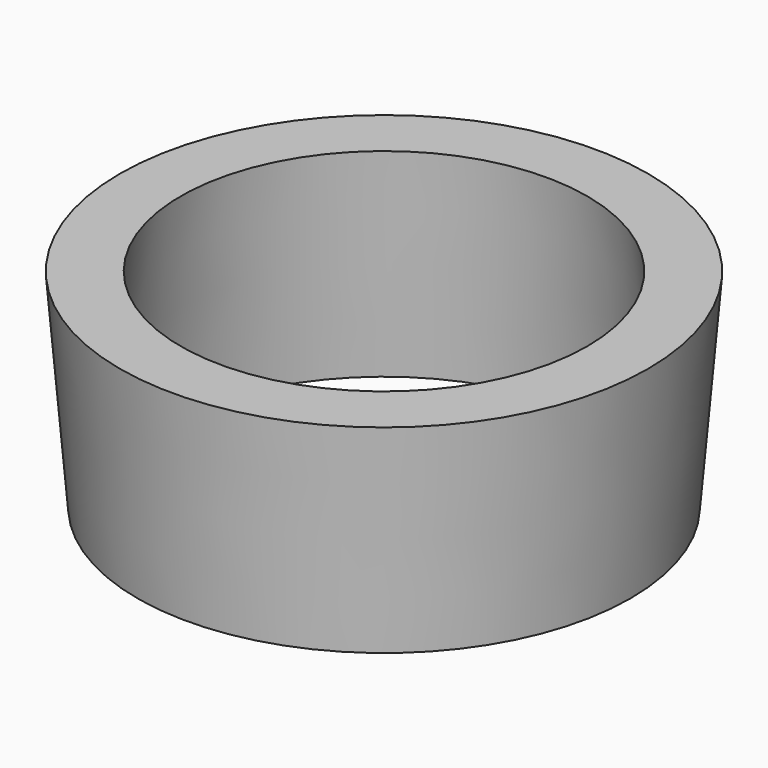
from build123d import *

# Parameters (mm, degrees)
F0_R     = 19
F0_R_2   = 17
F1_DEPTH = 16
F1_TAPER = -4.8


with BuildPart() as f1:
    # F0 (on Top) → F1 (new body)
    with BuildSketch(Plane.XY):
        Circle(F0_R)
        Circle(F0_R_2, mode=Mode.SUBTRACT)
    extrude(amount=F1_DEPTH, taper=F1_TAPER)


solid = f1.part
